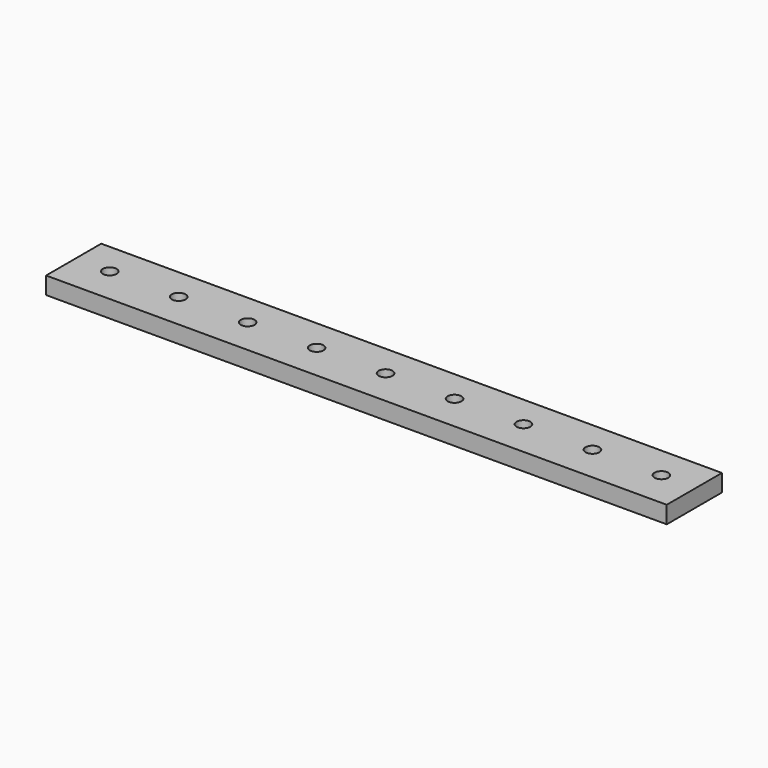
from build123d import *

# Parameters (mm, degrees)
F0_W     = 228.6
F0_H     = 25.4
F0_R     = 2.54
F1_DEPTH = 6.35


with BuildPart() as f1:
    # F0 (on Top) → F1 (new body)
    with BuildSketch(Plane.XY):
        with Locations((114.3, -0.72377)):
            Rectangle(F0_W, F0_H)
        with Locations((12.7, 0)):
            Circle(F0_R, mode=Mode.SUBTRACT)
        with Locations((38.1, 0)):
            Circle(F0_R, mode=Mode.SUBTRACT)
        with Locations((63.5, 0)):
            Circle(F0_R, mode=Mode.SUBTRACT)
        with Locations((88.9, 0)):
            Circle(F0_R, mode=Mode.SUBTRACT)
        with Locations((114.3, 0)):
            Circle(F0_R, mode=Mode.SUBTRACT)
        with Locations((139.7, 0)):
            Circle(F0_R, mode=Mode.SUBTRACT)
        with Locations((165.1, 0)):
            Circle(F0_R, mode=Mode.SUBTRACT)
        with Locations((190.5, 0)):
            Circle(F0_R, mode=Mode.SUBTRACT)
        with Locations((215.9, 0)):
            Circle(F0_R, mode=Mode.SUBTRACT)
    extrude(amount=F1_DEPTH)


solid = f1.part
